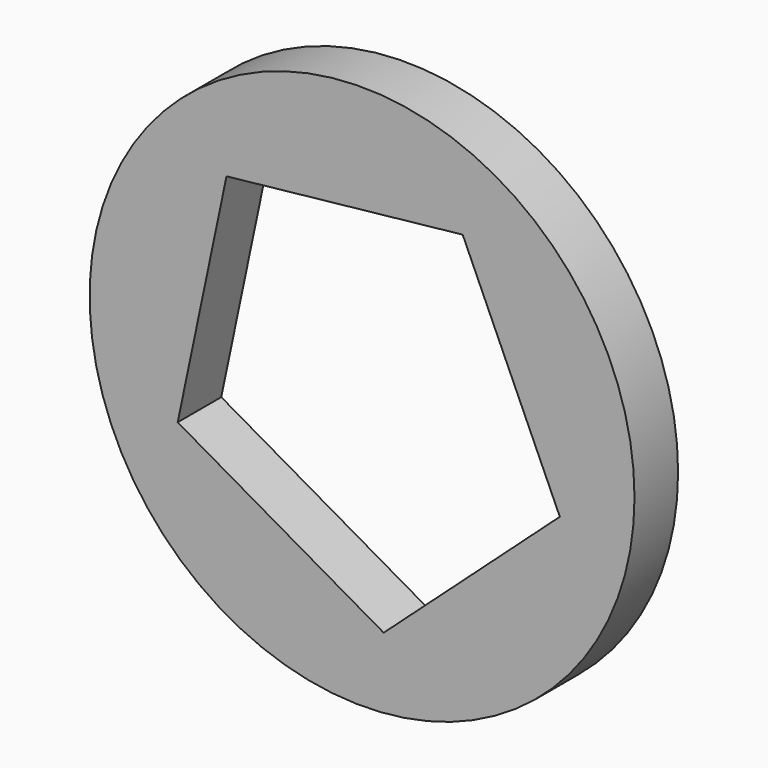
from build123d import *

# Parameters (mm, degrees)
F0_R     = 10
F1_DEPTH = 2


with BuildPart() as f1:
    # F0 (on Front) → F1 (new body)
    with BuildSketch(Plane.XZ):
        Circle(F0_R)
        Polygon((3.692769, 6.431684), (7.258024, -1.524532), (0.792936, -7.373897), (-6.767962, -3.032787), (-4.975767, 5.499532), align=None, mode=Mode.SUBTRACT)
    extrude(amount=F1_DEPTH)


solid = f1.part
